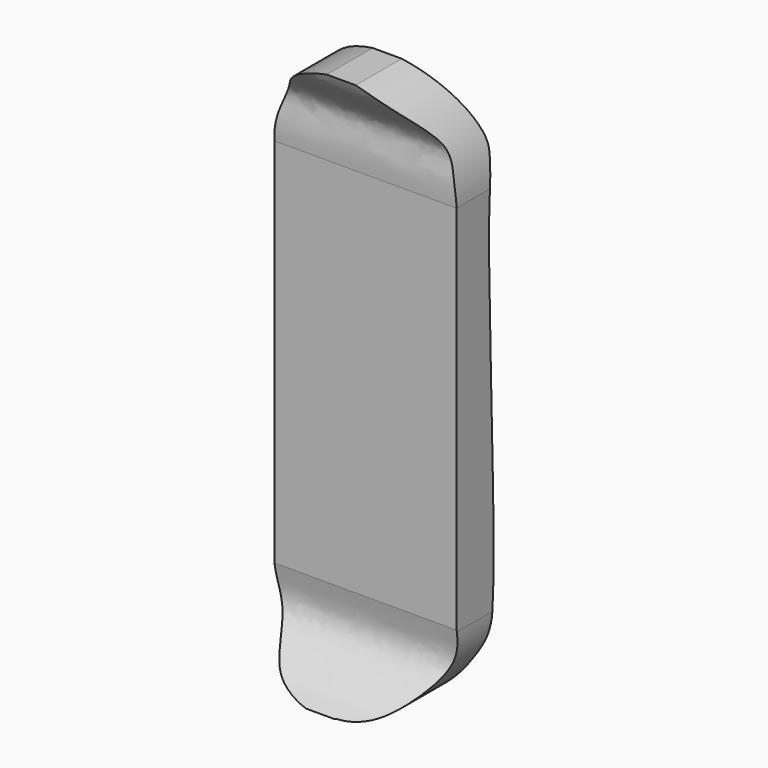
from build123d import *

# Parameters (mm, degrees)
F0_W      = 19.4730237126
F0_H      = 39.8938767612
F1_DEPTH  = 53.848
F4_DEPTH  = 118.11
F6_W      = 6.517266389
F6_H      = 1.9551778678
F7_DEPTH  = 4.318
F6_H_2    = 2.2810436785
F9_R      = 2.192505397
F10_DEPTH = 1.524
F9_R_2    = 2.3064764246
F12_R     = 2.242194372
F13_DEPTH = 1.524
F12_R_2   = 2.1799890435


with BuildPart() as f1:
    # F0 (on Front) → F1 (new body)
    with BuildSketch(Plane.XZ):
        with Locations((9.7365118563, -19.9469383806)):
            Rectangle(F0_W, F0_H)
        with BuildLine():
            ThreePointArc((10.8052724972, 10.7791246846), (3.1663808531, 7.6312424071), (0, 0))
            Line((0, 0), (19.4730237126, 0))
            ThreePointArc((19.4730237126, 0), (17.0373024717, 6.9159135351), (10.8052724972, 10.7791246846))
        make_face()
        with BuildLine():
            Line((19.4730237126, -39.8938767612), (0, -39.8938767612))
            ThreePointArc((0, -39.8938767612), (3.3036640813, -46.8900531098), (10.8052724972, -48.7838722765))
            ThreePointArc((10.8052724972, -48.7838722765), (16.9474550511, -46.101974928), (19.4730237126, -39.8938767612))
        make_face()
    extrude(amount=F1_DEPTH)

    # F3 (on offset) → F4 (intersect)
    with BuildSketch(Plane.YZ.offset(-49.022)):
        with BuildLine():
            add(Edge.make_bspline(
                [(-36.8586873474, 0), (-36.8919603895, 0.7530999839), (-37.0778688158, 2.6144761287), (-35.7895641145, 5.8111939968), (-40.2475164006, 8.8692086598), (-40.6020059403, 10.5510757451)],
                knots=[0, 0, 0, 0, 0.2732019747, 0.5694140182, 1, 1, 1, 1], degree=3))
            Line((-36.8586873474, 0), (-36.8586873474, -39.7190079093))
            add(Edge.make_bspline(
                [(-36.8586873474, -39.7190079093), (-36.7087489656, -40.9834027512), (-35.7081874891, -44.1675387969), (-41.0345357649, -47.0236409696), (-41.7142958558, -48.4058483971), (-42.1163775027, -48.8312616944)],
                knots=[0, 0, 0, 0, 0.348890724, 0.7503059728, 1, 1, 1, 1], degree=3))
            add(Edge.make_bspline(
                [(-35.8224385996, -48.6092516411), (-39.7488554586, -48.6092516411), (-38.1899606436, -48.8312616944), (-42.1163775027, -48.8312616944)],
                knots=[0, 0, 0, 0, 6.2978532358, 6.2978532358, 6.2978532358, 6.2978532358], degree=3))
            add(Edge.make_bspline(
                [(-34.446722697, 10.5510757451), (-33.6319148723, 9.2869111044), (-32.3839047516, 6.6117773426), (-31.508076892, 3.4361304962), (-33.5045467559, 0.4415943039), (-30.8030067117, -41.7990229537), (-33.3714799088, -43.6102367567), (-34.2955524257, -47.1147462947), (-35.2845534591, -47.7893097907), (-35.8224385996, -48.6092516411)],
                knots=[0, 0, 0, 0, 0.1244128912, 0.2206003607, 0.3347836335, 0.7081307119, 0.8125450974, 0.9124165958, 1, 1, 1, 1], degree=3))
            Line((-34.446722697, 10.5510757451), (-40.6020059403, 10.5510757451))
        make_face()
    extrude(amount=F4_DEPTH, mode=Mode.INTERSECT)


with BuildPart() as f7:
    # F6 (on offset) → F7 (new body)
    with BuildSketch(Plane.XZ.offset(31.75)):
        with Locations((9.6440364141, -4.5299254125)):
            Rectangle(F6_W, F6_H)
    extrude(amount=-F7_DEPTH)


with BuildPart() as f7b:
    # F6 (on offset) → F7, piece 2 (new body)
    with BuildSketch(Plane.XZ.offset(31.75)):
        with Locations((9.6440364141, -34.0205524117)):
            Rectangle(F6_W, F6_H_2)
    extrude(amount=-F7_DEPTH)


with BuildPart() as f10:
    # F9 (on offset) → F10 (new body)
    with BuildSketch(Plane.YZ.offset(12.9026696086)):
        with Locations((-29.3517373502, -4.27623)):
            Circle(F9_R)
    extrude(amount=F10_DEPTH)


with BuildPart() as f10b:
    # F9 (on offset) → F10, piece 2 (new body)
    with BuildSketch(Plane.YZ.offset(12.9026696086)):
        with Locations((-29.3517373502, -34.0426564217)):
            Circle(F9_R_2)
    extrude(amount=F10_DEPTH)


with BuildPart() as f13:
    # F12 (on offset) → F13 (new body)
    with BuildSketch(Plane(origin=(6.3854032196, 0, 0), x_dir=(0, -1, 0), z_dir=(-1, 0, 0))):
        with Locations((29.3953735381, -33.8879860938)):
            Circle(F12_R)
    extrude(amount=F13_DEPTH)


with BuildPart() as f13b:
    # F12 (on offset) → F13, piece 2 (new body)
    with BuildSketch(Plane(origin=(6.3854032196, 0, 0), x_dir=(0, -1, 0), z_dir=(-1, 0, 0))):
        with Locations((29.2891394347, -4.44234116)):
            Circle(F12_R_2)
    extrude(amount=F13_DEPTH)


solid = Compound([f1.part, f7.part, f7b.part, f10.part, f10b.part, f13.part, f13b.part])
